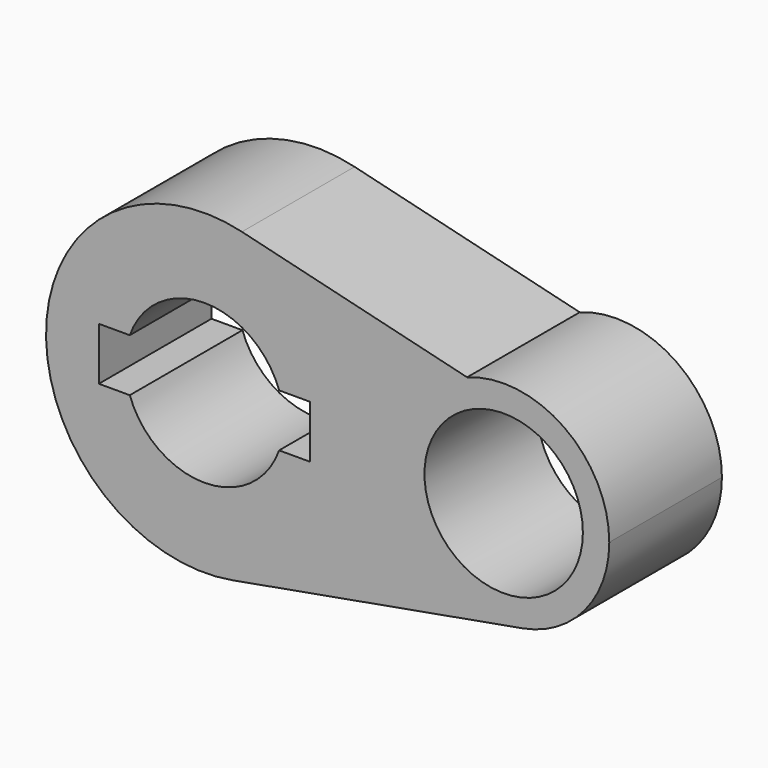
from build123d import *

# Parameters (mm, degrees)
F0_R     = 14.2875
F1_DEPTH = 25.4


with BuildPart() as f1:
    # F0 (on Front) → F1 (new body)
    with BuildSketch(Plane.XZ):
        with BuildLine():
            ThreePointArc((5.042647, -28.126541), (21.916025, -18.336262), (28.575, 0))
            ThreePointArc((28.575, 0), (22.469511, 17.65366), (6.762108, 27.763367))
            ThreePointArc((6.762108, 27.763367), (-28.561487, 0.878698), (5.042647, -28.126541))
        make_face()
        with BuildLine():
            ThreePointArc((-13.470384, 4.7625), (0, 14.2875), (13.470384, 4.7625))
            Line((13.470384, 4.7625), (19.05, 4.7625))
            Line((19.05, 4.7625), (19.05, -4.7625))
            Line((19.05, -4.7625), (13.470384, -4.7625))
            ThreePointArc((13.470384, -4.7625), (0, -14.2875), (-13.470384, -4.7625))
            Line((-13.470384, -4.7625), (-19.05, -4.7625))
            Line((-19.05, -4.7625), (-19.05, 4.7625))
            Line((-19.05, 4.7625), (-13.470384, 4.7625))
        make_face(mode=Mode.SUBTRACT)
        with BuildLine():
            ThreePointArc((6.762108, 27.763367), (22.469511, 17.65366), (28.575, 0))
            ThreePointArc((28.575, 0), (21.916025, -18.336262), (5.042647, -28.126541))
            Line((5.042647, -28.126541), (57.336765, -18.751028))
            ThreePointArc((57.336765, -18.751028), (35.592632, -4.999106), (47.377355, 17.871026))
            Line((47.377355, 17.871026), (6.762108, 27.763367))
        make_face()
        with BuildLine():
            ThreePointArc((73.025, 0), (64.865761, 15.629902), (47.377355, 17.871026))
            ThreePointArc((47.377355, 17.871026), (35.592632, -4.999106), (57.336765, -18.751028))
            ThreePointArc((57.336765, -18.751028), (68.585683, -12.224174), (73.025, 0))
        make_face()
        with Locations((53.975, 0)):
            Circle(F0_R, mode=Mode.SUBTRACT)
    extrude(amount=F1_DEPTH)


solid = f1.part
